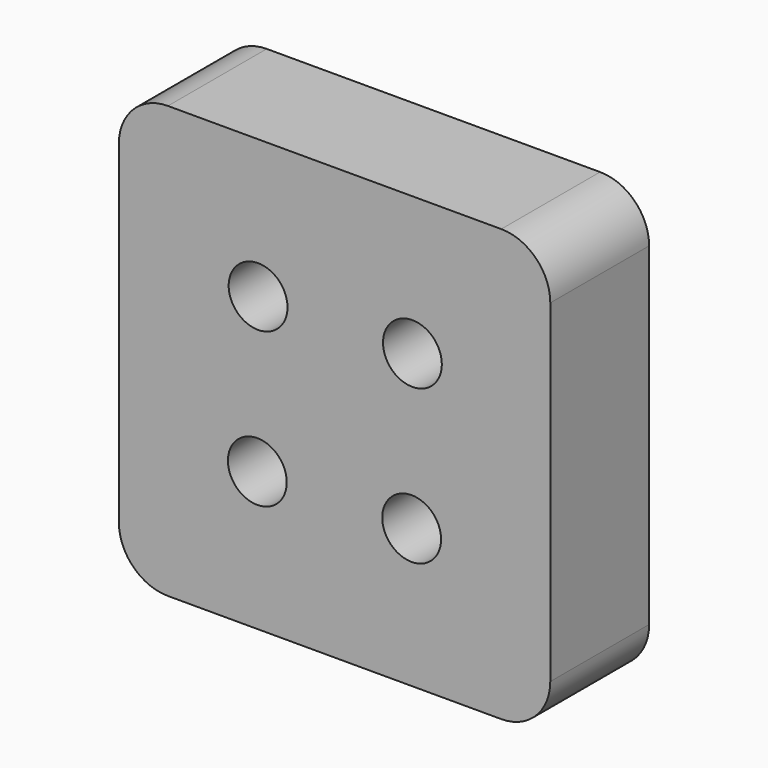
from build123d import *

# Parameters (mm, degrees)
F0_R     = 0.762
F0_R_2   = 0.381
F1_DEPTH = 1.6002
F2_DEPTH = 0.127


with BuildPart() as f1:
    # F0 (on Front) → F1 (new body)
    with BuildSketch(Plane.XZ):
        with BuildLine():
            Line((-2.159, -2.794), (2.159, -2.794))
            ThreePointArc((2.159, -2.794), (2.608013, -2.608013), (2.794, -2.159))
            Line((2.794, -2.159), (2.794, 2.159))
            ThreePointArc((2.794, 2.159), (2.608013, 2.608013), (2.159, 2.794))
            Line((2.159, 2.794), (-2.159, 2.794))
            ThreePointArc((-2.159, 2.794), (-2.608013, 2.608013), (-2.794, 2.159))
            Line((-2.794, 2.159), (-2.794, -2.159))
            ThreePointArc((-2.794, -2.159), (-2.608013, -2.608013), (-2.159, -2.794))
        make_face()
        with Locations((-1.00076, -0.99822)):
            Circle(F0_R, mode=Mode.SUBTRACT)
        with Locations((0.99822, -0.99822)):
            Circle(F0_R, mode=Mode.SUBTRACT)
        with Locations((-0.990843, 1.00076)):
            Circle(F0_R, mode=Mode.SUBTRACT)
        with Locations((1.008137, 1.00076)):
            Circle(F0_R, mode=Mode.SUBTRACT)
        with Locations((-0.990843, 1.00076)):
            Circle(F0_R)
        with Locations((-0.990843, 1.00076)):
            Circle(F0_R_2, mode=Mode.SUBTRACT)
        with Locations((1.008137, 1.00076)):
            Circle(F0_R)
        with Locations((1.008137, 1.00076)):
            Circle(F0_R_2, mode=Mode.SUBTRACT)
        with Locations((0.99822, -0.99822)):
            Circle(F0_R)
        with Locations((0.99822, -0.99822)):
            Circle(F0_R_2, mode=Mode.SUBTRACT)
        with Locations((-1.00076, -0.99822)):
            Circle(F0_R)
        with Locations((-1.00076, -0.99822)):
            Circle(F0_R_2, mode=Mode.SUBTRACT)
    extrude(amount=F1_DEPTH)

    # F0 (on Front) → F2 (join)
    with BuildSketch(Plane.XZ):
        with Locations((1.008137, 1.00076)):
            Circle(F0_R)
        with Locations((1.008137, 1.00076)):
            Circle(F0_R_2, mode=Mode.SUBTRACT)
        with Locations((0.99822, -0.99822)):
            Circle(F0_R)
        with Locations((0.99822, -0.99822)):
            Circle(F0_R_2, mode=Mode.SUBTRACT)
        with Locations((-1.00076, -0.99822)):
            Circle(F0_R)
        with Locations((-1.00076, -0.99822)):
            Circle(F0_R_2, mode=Mode.SUBTRACT)
        with Locations((-0.990843, 1.00076)):
            Circle(F0_R)
        with Locations((-0.990843, 1.00076)):
            Circle(F0_R_2, mode=Mode.SUBTRACT)
    extrude(amount=-F2_DEPTH)


solid = f1.part
